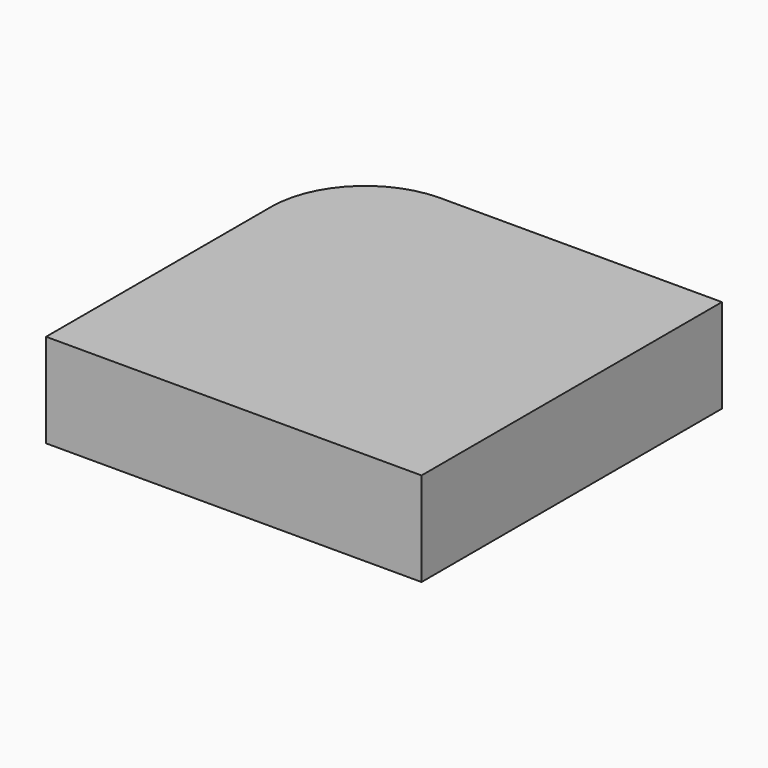
from build123d import *

# Parameters (mm, degrees)
F1_DEPTH = 5


with BuildPart() as f1:
    # F0 (on Top) → F1 (new body)
    with BuildSketch(Plane.XY):
        with BuildLine():
            Line((8.674057, 16.599681), (-6.325943, 16.599681))
            ThreePointArc((-6.325943, 16.599681), (-9.861476, 15.135215), (-11.325943, 11.599681))
            Line((-11.325943, 11.599681), (-11.325943, -3.400319))
            Line((-11.325943, -3.400319), (8.674057, -3.400319))
            Line((8.674057, -3.400319), (8.674057, 16.599681))
        make_face()
    extrude(amount=F1_DEPTH)


solid = f1.part
